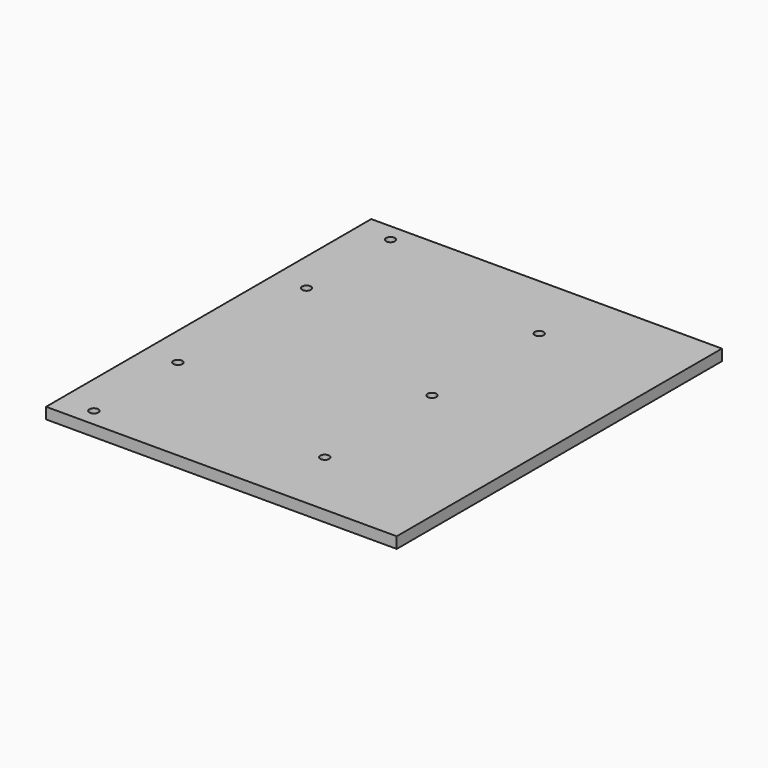
from build123d import *

# Parameters (mm, degrees)
F1_W     = 157
F1_H     = 182
F0_DEPTH = 5
F3_D     = 4


with BuildPart() as f0:
    # F1 (on Top) → F0 (new body)
    with BuildSketch(Plane.XY):
        with Locations((78.5, 127.550745)):
            Rectangle(F1_W, F1_H)
    extrude(amount=F0_DEPTH)

    # F3 (through all)
    with Locations(Plane.XY.offset(5)):
        with Locations((15, 210.550745), (15, 163.550745), (15, 91.550745), (15, 44.550745), (100, 67.550745), (100, 127.550745), (100, 127.550745), (100, 187.550745)):
            Hole(F3_D / 2)


solid = f0.part
